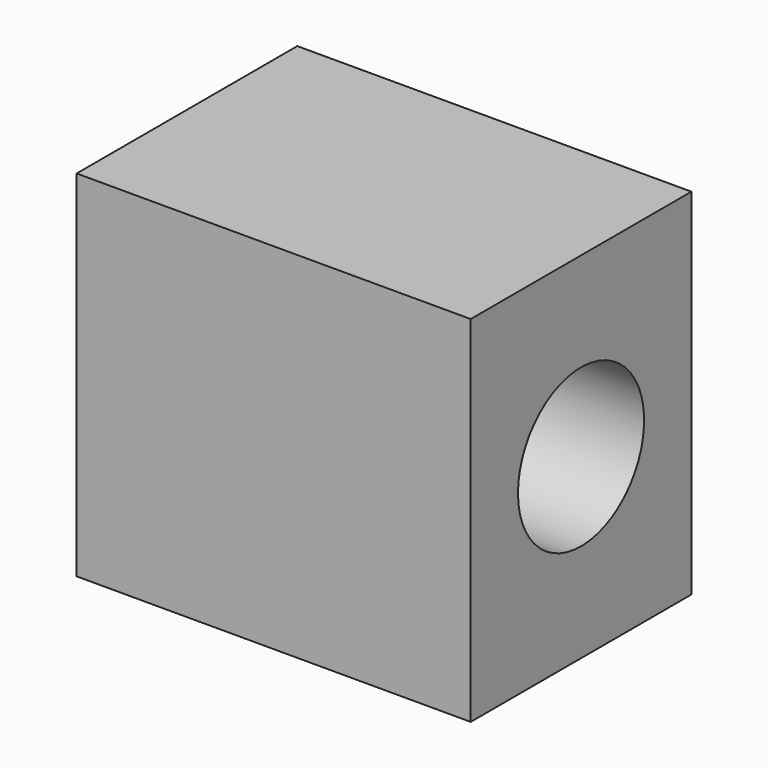
from build123d import *

# Parameters (mm, degrees)
F0_W           = 50
F0_H           = 45
F1_DEPTH       = 35
F3_D           = 20
F3_DEPTH       = 20
F3_CBORE_D     = 20
F3_CBORE_DEPTH = 0
F3_TIP         = 6.0086061903


with BuildPart() as f1:
    # F0 (on Front) → F1 (new body)
    with BuildSketch(Plane.XZ):
        with Locations((-9.8103056662, 28.8621410192)):
            Rectangle(F0_W, F0_H)
    extrude(amount=F1_DEPTH)

    # F3
    with Locations(Plane.YZ.offset(15.1896943338)):
        with Locations((-17.5, 28.8621410192)):
            CounterBoreHole(F3_D / 2, F3_CBORE_D / 2, F3_CBORE_DEPTH, depth=F3_DEPTH)
            with Locations((0, 0, -(F3_DEPTH + F3_TIP / 2))):  # 118° drill point
                Cone(0, F3_D / 2, F3_TIP, mode=Mode.SUBTRACT)


solid = f1.part
